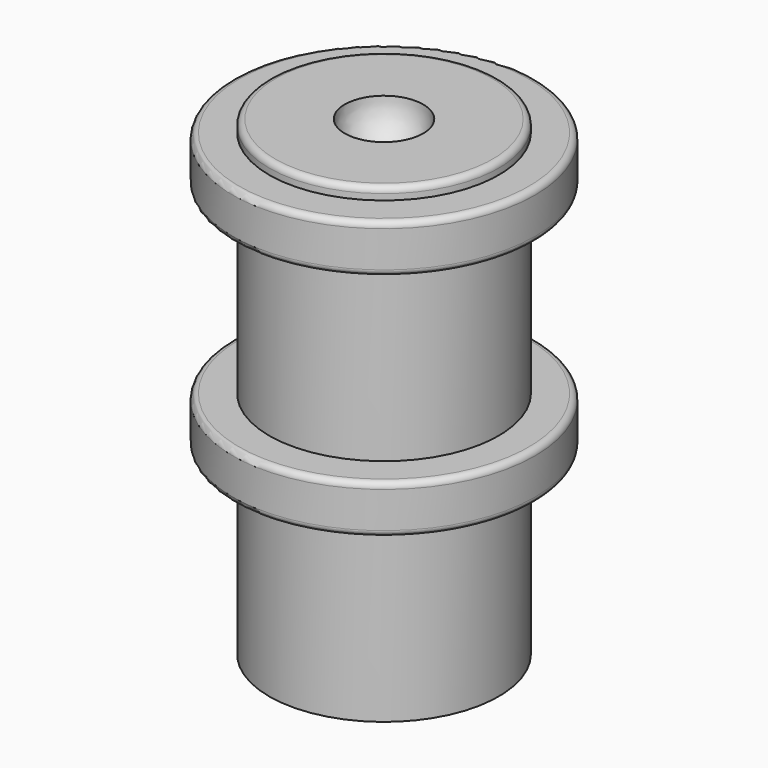
from build123d import *

# Parameters (mm, degrees)
F2_R     = 8.65
F3_DEPTH = 35
F5_R     = 8.2
F6_DEPTH = 2
F7_R     = 1.3


with BuildPart() as f1:
    # F0 (on Front) → F1 (revolve)
    with BuildSketch(Plane.XZ):
        with BuildLine():
            Line((-9.5, 0), (0, 0))
            Line((0, 0), (0, 35.75))
            ThreePointArc((0, 35.75), (-2.298097, 36.701903), (-3.25, 39))
            Line((-3.25, 39), (-9, 39))
            ThreePointArc((-9, 39), (-9.353553, 38.853553), (-9.5, 38.5))
            Line((-9.5, 38.5), (-9.5, 38))
            Line((-9.5, 38), (-12, 38))
            ThreePointArc((-12, 38), (-12.353553, 37.853553), (-12.5, 37.5))
            Line((-12.5, 37.5), (-12.5, 34.5))
            ThreePointArc((-12.5, 34.5), (-12.353553, 34.146447), (-12, 34))
            Line((-12, 34), (-9.5, 34))
            Line((-9.5, 34), (-9.5, 19))
            Line((-9.5, 19), (-12, 19))
            ThreePointArc((-12, 19), (-12.353553, 18.853553), (-12.5, 18.5))
            Line((-12.5, 18.5), (-12.5, 15.5))
            ThreePointArc((-12.5, 15.5), (-12.353553, 15.146447), (-12, 15))
            Line((-12, 15), (-9.5, 15))
            Line((-9.5, 15), (-9.5, 0))
        make_face()
    revolve(axis=Axis((0, 0, 19.5), (0, 0, -1)))

    # F2 (on face) → F3 (cut)
    with BuildSketch(Plane(origin=(0, 0, 0), x_dir=(1, 0, 0), z_dir=(0, 0, -1))):
        Circle(F2_R)
    extrude(amount=-F3_DEPTH, mode=Mode.SUBTRACT)


with BuildPart() as f6:
    # F5 (on offset) → F6 (new body)
    with BuildSketch(Plane.XY.offset(26.7)):
        Circle(F5_R)
    extrude(amount=F6_DEPTH)

    # F7
    f7_edges = [f6.edges().sort_by_distance(p)[0] for p in [
        (-8.2, 0, 26.7),
    ]]
    fillet(f7_edges, radius=F7_R)


solid = Compound([f1.part, f6.part])
